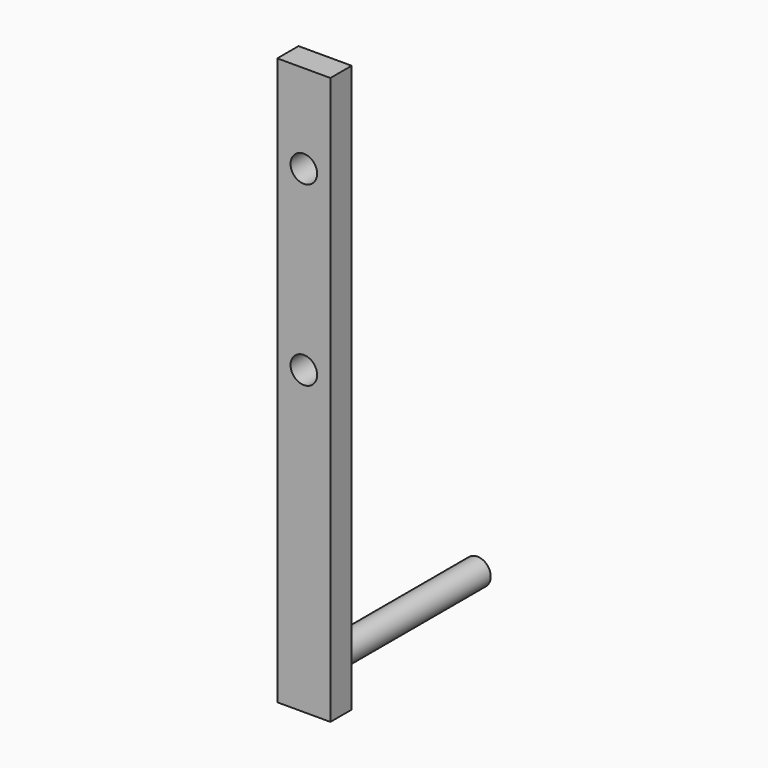
from build123d import *

# Parameters (mm, degrees)
F0_W     = 6
F0_H     = 64
F1_DEPTH = 3
F2_R     = 1.5
F3_DEPTH = 5
F4_R     = 1.5
F5_DEPTH = 24.5


with BuildPart() as f1:
    # F0 (on Front) → F1 (new body)
    with BuildSketch(Plane.XZ):
        Rectangle(F0_W, F0_H)
    extrude(amount=F1_DEPTH)

    # F2 (on face) → F3 (cut)
    with BuildSketch(Plane.XZ.offset(3)):
        with Locations((0, 2)):
            Circle(F2_R)
        with Locations((0, 22)):
            Circle(F2_R)
    extrude(amount=-F3_DEPTH, mode=Mode.SUBTRACT)

    # F4 (on face) → F5 (join)
    with BuildSketch(Plane.XZ.offset(3)):
        with Locations((0, -28)):
            Circle(F4_R)
    extrude(amount=-F5_DEPTH)


solid = f1.part
